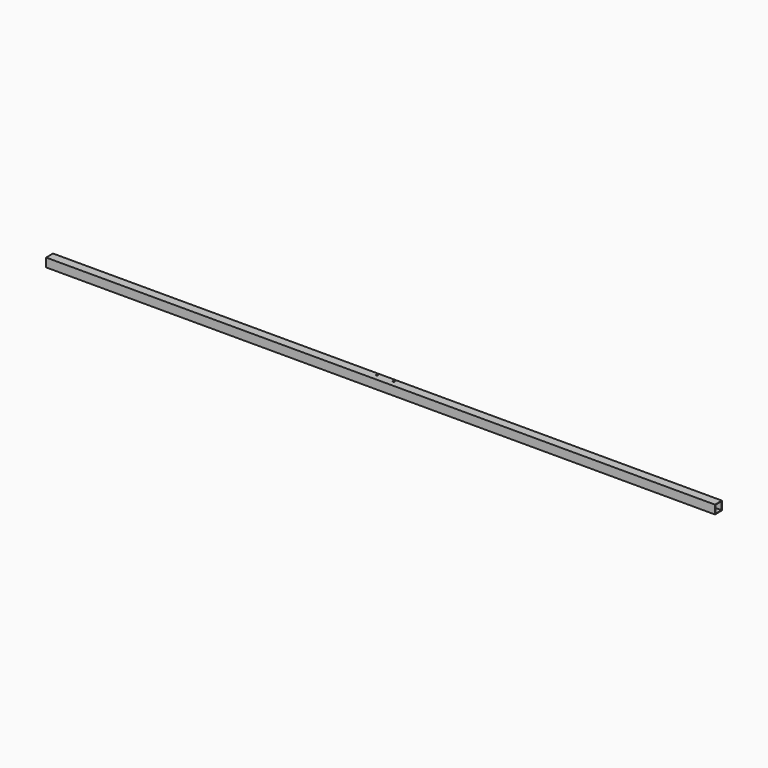
from build123d import *

# Parameters (mm, degrees)
F0_W     = 15.875
F0_H     = 15.875
F0_W_2   = 14.2748
F0_H_2   = 14.2748
F1_DEPTH = 609.6
F3_DEPTH = 5.08
F4_R     = 1.7145
F5_DEPTH = 15.876


with BuildPart() as f1:
    # F0 (on Right) → F1 (new body, symmetric)
    with BuildSketch(Plane.YZ):
        Rectangle(F0_W, F0_H)
        Rectangle(F0_W_2, F0_H_2, mode=Mode.SUBTRACT)
    extrude(amount=F1_DEPTH, both=True)

    # F2 (on face) → F3 (cut)
    with BuildSketch(Plane(origin=(0, 0, -7.9375), x_dir=(1, 0, 0), z_dir=(0, 0, -1))):
        with BuildLine():
            Line((-17.145, 0), (17.145, 0))
            ThreePointArc((17.145, 0), (18.4920384182, 0.5579615818), (19.05, 1.905))
            ThreePointArc((19.05, 1.905), (18.4920384182, 3.2520384182), (17.145, 3.81))
            Line((17.145, 3.81), (-17.145, 3.81))
            ThreePointArc((-17.145, 3.81), (-18.4920384182, 3.2520384182), (-19.05, 1.905))
            ThreePointArc((-19.05, 1.905), (-18.4920384182, 0.5579615818), (-17.145, 0))
        make_face()
    extrude(amount=-F3_DEPTH, mode=Mode.SUBTRACT)

    # F4 (on face) → F5 (cut, through all)
    with BuildSketch(Plane(origin=(0, 0, -7.9375), x_dir=(1, 0, 0), z_dir=(0, 0, -1))):
        with Locations((-15.24, -3.175)):
            Circle(F4_R)
        with Locations((15.24, -3.175)):
            Circle(F4_R)
    extrude(amount=-F5_DEPTH, mode=Mode.SUBTRACT)


solid = f1.part
